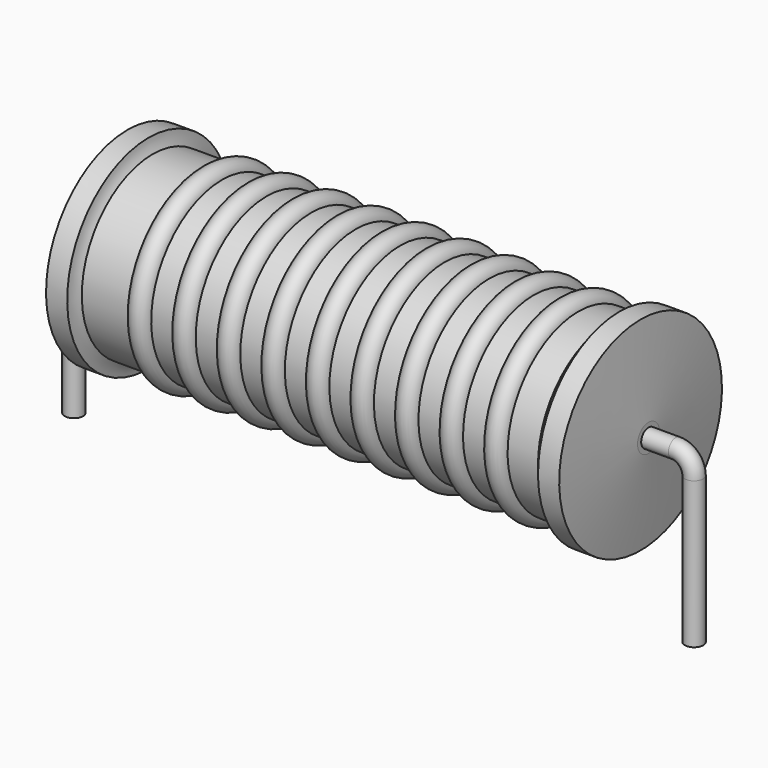
from build123d import *

# Parameters (mm, degrees)
SKETCH_R = 0.45


with BuildPart() as revolution:
    # Sketch002 → Revolution (revolve)
    with BuildSketch(Plane.XZ):
        with BuildLine():
            Line((2.63, 10.1), (3.67, 10.1))
            ThreePointArc((3.67, 10.1), (3.731746, 9.763652), (3.868, 9.45))
            Line((3.868, 9.45), (26.29, 9.45))
            ThreePointArc((26.29, 9.45), (26.583495, 9.748204), (26.81, 10.1))
            Line((26.81, 10.1), (27.85, 10.1))
            ThreePointArc((28.24, 5.775), (28.054646, 7.93837), (27.85, 10.1))
            Line((28.24, 5.1), (28.24, 5.775))
            Line((2.24, 5.1), (28.24, 5.1))
            Line((2.24, 5.1), (2.24, 5.775))
            ThreePointArc((2.63, 10.1), (2.425354, 7.93837), (2.24, 5.775))
        make_face()
    revolve(axis=Axis((2.24, 0, 5.1), (1, 0, 0)))


with BuildPart() as sweep_body:
    # Sweep: sweep along a path in Sketch001
    with BuildLine(Plane.XZ) as sweep_path:
        Line((0, -3), (0, 4.2))
        ThreePointArc((0, 4.2), (0.2636, 4.836392), (0.899989, 5.1))
        Line((0.899989, 5.1), (29.58, 5.1))
        ThreePointArc((29.58, 5.1), (30.216396, 4.836396), (30.48, 4.2))
        Line((30.48, 4.2), (30.48, -3))
    # Sketch → Sweep (sweep)
    with BuildSketch(Plane.XY.offset(-2)):
        Circle(SKETCH_R)
    sweep(path=sweep_path.line)


with BuildPart() as revolution001:
    # Sketch003 → Revolution001 (revolve)
    with BuildSketch(Plane.XZ):
        with BuildLine():
            ThreePointArc((7.289474, 9.346), (6.742105, 9.893368), (6.194737, 9.346))
            Line((5.1, 9.346), (6.194737, 9.346))
            Line((5.1, 9.346), (5.1, 8.346))
            Line((5.1, 8.346), (25.9, 8.346))
            Line((25.9, 8.346), (25.9, 9.346))
            Line((24.805263, 9.346), (25.9, 9.346))
            ThreePointArc((24.805263, 9.346), (24.257895, 9.893368), (23.710526, 9.346))
            Line((22.615789, 9.346), (23.710526, 9.346))
            ThreePointArc((22.615789, 9.346), (22.068421, 9.893368), (21.521053, 9.346))
            Line((20.426316, 9.346), (21.521053, 9.346))
            ThreePointArc((20.426316, 9.346), (19.878947, 9.893368), (19.331579, 9.346))
            Line((18.236842, 9.346), (19.331579, 9.346))
            ThreePointArc((18.236842, 9.346), (17.689474, 9.893368), (17.142105, 9.346))
            Line((16.047368, 9.346), (17.142105, 9.346))
            ThreePointArc((16.047368, 9.346), (15.5, 9.893368), (14.952632, 9.346))
            Line((13.857895, 9.346), (14.952632, 9.346))
            ThreePointArc((13.857895, 9.346), (13.310526, 9.893368), (12.763158, 9.346))
            Line((11.668421, 9.346), (12.763158, 9.346))
            ThreePointArc((11.668421, 9.346), (11.121053, 9.893368), (10.573684, 9.346))
            Line((9.478947, 9.346), (10.573684, 9.346))
            ThreePointArc((9.478947, 9.346), (8.931579, 9.893368), (8.384211, 9.346))
            Line((7.289474, 9.346), (8.384211, 9.346))
        make_face()
    revolve(axis=Axis((2.89, 0, 5.1), (1, 0, 0)))


solid = Compound([revolution.part, sweep_body.part, revolution001.part])
